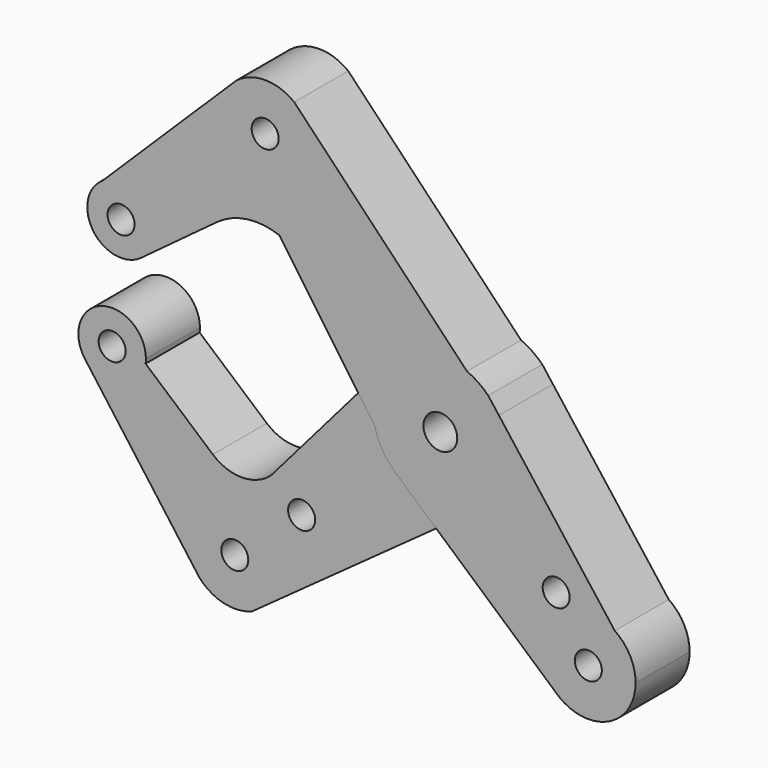
from build123d import *

# Parameters (mm, degrees)
F0_R     = 3.175
F1_DEPTH = 15.875
F0_R_2   = 3.9751
F2_DEPTH = 15.875


with BuildPart() as f1:
    # F0 (on Front) → F1 (new body)
    with BuildSketch(Plane.XZ):
        with BuildLine():
            ThreePointArc((-10.4960732024, -11.9099988383), (-13.5875737276, -8.2093523008), (-15.4254200703, -3.7512718716))
            Line((-15.4254200703, -3.7512718716), (-19.3001614593, 1.8110578452))
            Line((-19.3001614593, 1.8110578452), (-39.9055071175, -22.0553158222))
            ThreePointArc((-39.9055071175, -22.0553158222), (-46.6961157411, -24.5811329447), (-53.4867243648, -22.0553158222))
            Line((-53.4867243648, -22.0553158222), (-69.2935079295, -8.4083226244))
            ThreePointArc((-69.2935079295, -8.4083226244), (-75.1878468749, -15.0479298343), (-83.5514512466, -12.0683766096))
            Line((-83.5514512466, -12.0683766096), (-57.7488667293, -47.0843634166))
            ThreePointArc((-57.7488667293, -47.0843634166), (-51.3949849127, -30.5086752982), (-37.2161209875, -41.1897365062))
            ThreePointArc((-37.2161209875, -41.1897365062), (-37.8797093639, -44.9723152736), (-39.7912214837, -48.3031369562))
            Line((-39.7912214837, -48.3031369562), (-0.9861432884, -20.2909336763))
            Line((-0.9861432884, -20.2909336763), (-10.4960732024, -11.9099988383))
        make_face()
        with Locations((-32.6121534423, -27.7948341944)):
            Circle(F0_R, mode=Mode.SUBTRACT)
        with BuildLine():
            ThreePointArc((-83.5514512466, -12.0683766096), (-75.1878468749, -15.0479298343), (-69.2935079295, -8.4083226244))
            ThreePointArc((-69.2935079295, -8.4083226244), (-69.2413484864, -7.8851648917), (-69.2239365418, -7.359701815))
            ThreePointArc((-69.2239365418, -7.359701815), (-79.639658135, 0.1810092911), (-83.5514512466, -12.0683766096))
        make_face()
        with Locations((-77.1614365418, -7.359701815)):
            Circle(F0_R, mode=Mode.SUBTRACT)
        with BuildLine():
            Line((-44.2649080783, -51.5325549635), (-39.7912214837, -48.3031369562))
            ThreePointArc((-39.7912214837, -48.3031369562), (-37.8797093639, -44.9723152736), (-37.2161209875, -41.1897365062))
            ThreePointArc((-37.2161209875, -41.1897365062), (-51.3949849127, -30.5086752982), (-57.7488667293, -47.0843634166))
            Line((-57.7488667293, -47.0843634166), (-56.7488778009, -48.4414212377))
            ThreePointArc((-56.7488778009, -48.4414212377), (-50.9995095335, -51.9764881314), (-44.2649080783, -51.5325549635))
        make_face()
        with Locations((-48.3286209875, -41.1897365062)):
            Circle(F0_R, mode=Mode.SUBTRACT)
    extrude(amount=F1_DEPTH)


with BuildPart() as f2:
    # F0 (on Front) → F2 (new body)
    with BuildSketch(Plane.XZ):
        with BuildLine():
            ThreePointArc((-15.4254200703, -3.7512718716), (-15.601870238, 2.9321101749), (-13.0110959964, 9.0954387455))
            Line((-13.0110959964, 9.0954387455), (-19.3001614593, 1.8110578452))
            Line((-19.3001614593, 1.8110578452), (-15.4254200703, -3.7512718716))
        make_face()
        with BuildLine():
            Line((13.7687512281, 7.9017159288), (11.2603527656, 11.1901778625))
            ThreePointArc((11.2603527656, 11.1901778625), (8.9252814501, 13.1284034078), (6.2640582022, 14.5868845145))
            ThreePointArc((6.2640582022, 14.5868845145), (-4.3496694021, 15.267481819), (-13.0110959964, 9.0954387455))
            ThreePointArc((-13.0110959964, 9.0954387455), (-15.601870238, 2.9321101749), (-15.4254200703, -3.7512718716))
            ThreePointArc((-15.4254200703, -3.7512718716), (-13.5875737276, -8.2093523008), (-10.4960732024, -11.9099988383))
            ThreePointArc((-10.4960732024, -11.9099988383), (-0.7706182381, -15.8562849536), (9.2916789078, -12.8716870718))
            ThreePointArc((9.2916789078, -12.8716870718), (14.1336659728, -7.2287696858), (15.875, 0))
            ThreePointArc((15.875, 0), (15.3394027059, 4.0888078491), (13.7687512281, 7.9017159288))
        make_face()
        Circle(F0_R_2, mode=Mode.SUBTRACT)
        with BuildLine():
            Line((41.0118364793, -27.8134426259), (13.7687512281, 7.9017159288))
            ThreePointArc((13.7687512281, 7.9017159288), (15.3394027059, 4.0888078491), (15.875, 0))
            ThreePointArc((15.875, 0), (14.1336659728, -7.2287696858), (9.2916789078, -12.8716870718))
            Line((9.2916789078, -12.8716870718), (-0.9861432884, -20.2909336763))
            Line((-0.9861432884, -20.2909336763), (27.0920340306, -45.0357400635))
            ThreePointArc((27.0920340306, -45.0357400635), (26.1453854478, -30.0341773035), (41.0118364793, -27.8134426259))
        make_face()
        with Locations((27.231558522, -24.3419895552)):
            Circle(F0_R, mode=Mode.SUBTRACT)
        with BuildLine():
            Line((-0.9861432884, -20.2909336763), (9.2916789078, -12.8716870718))
            ThreePointArc((9.2916789078, -12.8716870718), (-0.7706182381, -15.8562849536), (-10.4960732024, -11.9099988383))
            Line((-10.4960732024, -11.9099988383), (-0.9861432884, -20.2909336763))
        make_face()
        with BuildLine():
            ThreePointArc((-13.0110959964, 9.0954387455), (-4.3496694021, 15.267481819), (6.2640582022, 14.5868845145))
            Line((6.2640582022, 14.5868845145), (-32.129608296, 54.7630388372))
            ThreePointArc((-32.129608296, 54.7630388372), (-30.6027555629, 51.7055264877), (-30.0772365062, 48.3286209875))
            ThreePointArc((-30.0772365062, 48.3286209875), (-44.8835040281, 37.847984664), (-49.8466381249, 55.2960961839))
            Line((-49.8466381249, 55.2960961839), (-79.3452021815, 26.2306461132))
            ThreePointArc((-79.3452021815, 26.2306461132), (-71.254391912, 26.5109371005), (-67.1259022204, 19.5470770559))
            ThreePointArc((-67.1259022204, 19.5470770559), (-67.975255956, 15.9746704742), (-70.3415466386, 13.1667960186))
            Line((-70.3415466386, 13.1667960186), (-52.5381806367, 26.3425358707))
            ThreePointArc((-52.5381806367, 26.3425358707), (-45.4329874517, 29.2405119956), (-37.8079637885, 28.379669413))
            Line((-37.8079637885, 28.379669413), (-19.3001614593, 1.8110578452))
            Line((-19.3001614593, 1.8110578452), (-13.0110959964, 9.0954387455))
        make_face()
        with BuildLine():
            ThreePointArc((-30.0772365062, 48.3286209875), (-30.6027555629, 51.7055264877), (-32.129608296, 54.7630388372))
            Line((-32.129608296, 54.7630388372), (-34.3510617896, 57.0876268883))
            ThreePointArc((-34.3510617896, 57.0876268883), (-41.1897365062, 59.4411209875), (-48.0284112228, 57.0876268883))
            Line((-48.0284112228, 57.0876268883), (-49.8466381249, 55.2960961839))
            ThreePointArc((-49.8466381249, 55.2960961839), (-44.8835040281, 37.847984664), (-30.0772365062, 48.3286209875))
        make_face()
        with Locations((-41.1897365062, 48.3286209875)):
            Circle(F0_R, mode=Mode.SUBTRACT)
        with BuildLine():
            ThreePointArc((-67.1259022204, 19.5470770559), (-71.254391912, 26.5109371005), (-79.3452021815, 26.2306461132))
            ThreePointArc((-79.3452021815, 26.2306461132), (-81.599032034, 15.0426959453), (-70.3415466386, 13.1667960186))
            ThreePointArc((-70.3415466386, 13.1667960186), (-67.975255956, 15.9746704742), (-67.1259022204, 19.5470770559))
        make_face()
        with Locations((-75.0634022204, 19.5470770559)):
            Circle(F0_R, mode=Mode.SUBTRACT)
        with BuildLine():
            ThreePointArc((45.9004296323, -37.0194536953), (44.6024805922, -31.8077125557), (41.0118364793, -27.8134426259))
            ThreePointArc((41.0118364793, -27.8134426259), (26.1453854478, -30.0341773035), (27.0920340306, -45.0357400635))
            ThreePointArc((27.0920340306, -45.0357400635), (39.1449364246, -47.2421807317), (45.9004296323, -37.0194536953))
        make_face()
        with Locations((34.7879296323, -37.0194536953)):
            Circle(F0_R, mode=Mode.SUBTRACT)
    extrude(amount=F2_DEPTH)


solid = Compound([f1.part, f2.part])
